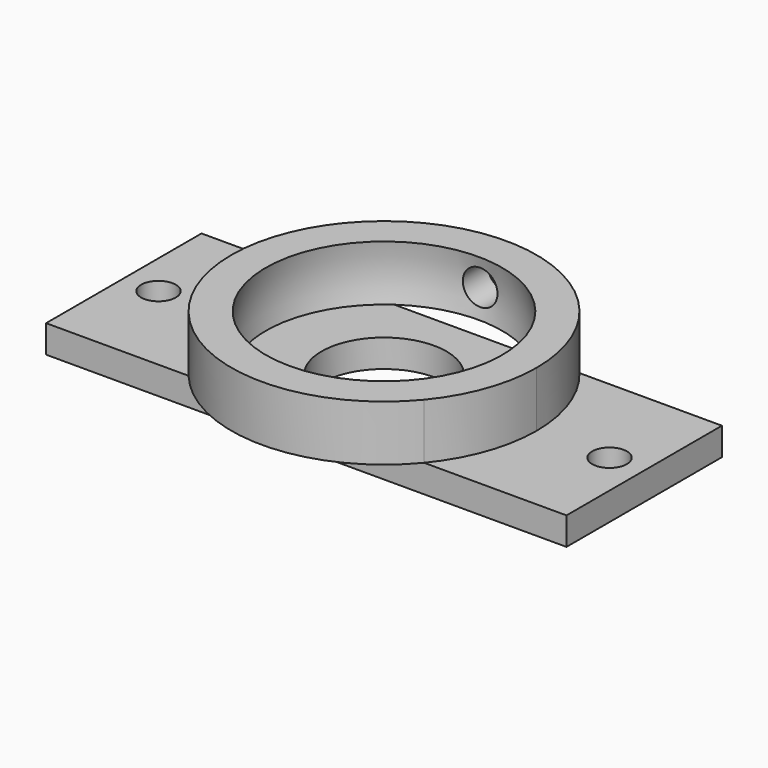
from build123d import *

# Parameters (mm, degrees)
F0_W     = 95.25
F0_H     = 35.56
F0_R     = 3.175
F0_R_2   = 11.43
F1_DEPTH = 5.08
F2_R     = 11.43
F3_DEPTH = 10.16
F8_D     = 6.35
F8_DEPTH = 27.941


with BuildPart() as f1:
    # F0 (on Top) → F1 (new body)
    with BuildSketch(Plane.XY):
        with Locations((-41.275, 0)):
            Rectangle(F0_W, F0_H)
        with Locations((-82.55, 0)):
            Circle(F0_R, mode=Mode.SUBTRACT)
        with Locations((-41.275, 0)):
            Circle(F0_R_2, mode=Mode.SUBTRACT)
        Circle(F0_R, mode=Mode.SUBTRACT)
    extrude(amount=F1_DEPTH)

    # F2 (on face) → F3 (join)
    with BuildSketch(Plane.XY.offset(5.08)):
        with BuildLine():
            ThreePointArc((-19.7223853094, -17.78), (-14.9802889876, -9.4462570774), (-13.335, 0))
            ThreePointArc((-13.335, 0), (-14.9802889876, 9.4462570774), (-19.7223853094, 17.78))
            Line((-19.7223853094, 17.78), (-62.8276146906, 17.78))
            ThreePointArc((-62.8276146906, 17.78), (-69.215, 0), (-62.8276146906, -17.78))
            Line((-62.8276146906, -17.78), (-19.7223853094, -17.78))
        make_face()
        with Locations((-41.275, 0)):
            Circle(F2_R, mode=Mode.SUBTRACT)
        with BuildLine():
            Line((-62.8276146906, 17.78), (-19.7223853094, 17.78))
            ThreePointArc((-19.7223853094, 17.78), (-41.275, 27.94), (-62.8276146906, 17.78))
        make_face()
        with BuildLine():
            ThreePointArc((-62.8276146906, -17.78), (-41.275, -27.94), (-19.7223853094, -17.78))
            Line((-19.7223853094, -17.78), (-62.8276146906, -17.78))
        make_face()
    extrude(amount=F3_DEPTH)

    # F5 (on offset) → F6 (revolve, cut)
    with BuildSketch(Plane.YZ.offset(-41.275)):
        Polygon((0, 5.08), (0, 10.16), (-21.6366407975, 5.08), align=None)
        with BuildLine():
            Line((-21.6366407975, 5.08), (0, 10.16))
            Line((0, 10.16), (0, 32.385))
            ThreePointArc((0, 32.385), (-17.4191507399, 23.9630363507), (-21.6366407975, 5.08))
        make_face()
    revolve(axis=Axis((-41.275, 0, 21.2725), (0, 0, 1)), mode=Mode.SUBTRACT)

    # F8 (through all, one way)
    with BuildSketch(Plane.XZ):
        with Locations((-41.275, 10.16)):
            Circle(F8_D / 2)
    extrude(amount=-F8_DEPTH, mode=Mode.SUBTRACT)


solid = f1.part
